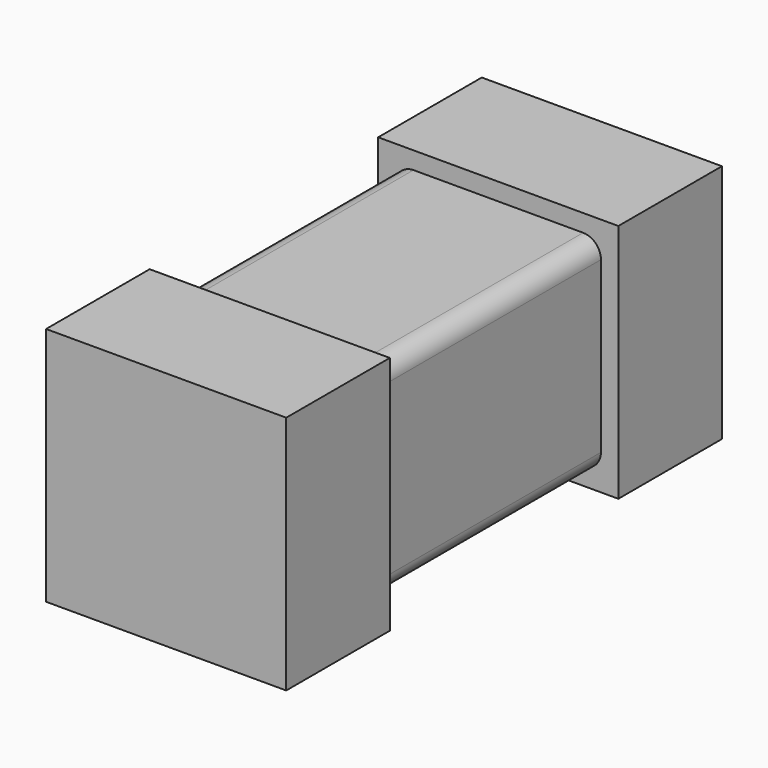
from build123d import *

# Parameters (mm, degrees)
SKETCH_W                   = 2.3
SKETCH_H                   = 2.3
PAD_DEPTH                  = 1.6
FILLET_R                   = 0.2
PAD001_DEPTH               = 1.345
PAD001_MIRRORED_2_DEPTH    = 1.345
SKETCH002_W                = 0.4
SKETCH002_H                = 2.3
POCKET_DEPTH               = 1.6
SKETCH002_MIRRORED002_2_W  = 0.4
SKETCH002_MIRRORED002_2_H  = 2.3
POCKET_MIRRORED002_2_DEPTH = 1.6


with BuildPart() as body:
    # Sketch → Pad (new body, symmetric)
    with BuildSketch(Plane.XZ):
        Rectangle(SKETCH_W, SKETCH_H)
    extrude(amount=PAD_DEPTH, both=True)

    # Fillet
    fillet_edges = [body.edges().sort_by_distance(p)[0] for p in [
        (-1.15, 0, 1.15),
        (1.15, 0, 1.15),
        (1.15, 0, -1.15),
        (-1.15, 0, -1.15),
    ]]
    fillet(fillet_edges, radius=FILLET_R)


with BuildPart() as body001:
    # Sketch001 → Pad001 (new body, symmetric)
    with BuildSketch(Plane.YZ):
        Polygon((0, 0), (-3.05, 0), (-3.05, 1.345), (-1.6, 1.345), (-1.6, 0.435), (0, 0.435), align=None)
    pad001 = extrude(amount=PAD001_DEPTH, both=True)

    # Sketch001 Mirrored 2 → Pad001 Mirrored 2 (add, symmetric)
    with BuildSketch(Plane(origin=(0, 0, 0), x_dir=(0, -1, 0), z_dir=(-1, 0, 0))):
        Polygon((0, 0), (-3.05, 0), (-3.05, 1.345), (-1.6, 1.345), (-1.6, 0.435), (0, 0.435), align=None)
    pad001_mirrored_2 = extrude(amount=-PAD001_MIRRORED_2_DEPTH, both=True)

    # Mirrored001: Pad001, Pad001 Mirrored 2 across XY
    add(pad001.mirror(Plane.XY))
    add(pad001_mirrored_2.mirror(Plane.XY))

    # Sketch002 → Pocket (cut)
    with BuildSketch(Plane.XZ):
        with Locations((-1.2, 0)):
            Rectangle(SKETCH002_W, SKETCH002_H)
    pocket = extrude(amount=-POCKET_DEPTH, mode=Mode.SUBTRACT)

    # Sketch002 Mirrored002 2 → Pocket Mirrored002 2 (cut)
    with BuildSketch(Plane(origin=(0, 0, 0), x_dir=(-1, 0, 0), z_dir=(0, 1, 0))):
        with Locations((-1.2, 0)):
            Rectangle(SKETCH002_MIRRORED002_2_W, SKETCH002_MIRRORED002_2_H)
    pocket_mirrored002_2 = extrude(amount=POCKET_MIRRORED002_2_DEPTH, mode=Mode.SUBTRACT)

    # Mirrored003: Pocket, Pocket Mirrored002 2 across XZ
    add(pocket.mirror(Plane.XZ), mode=Mode.SUBTRACT)
    add(pocket_mirrored002_2.mirror(Plane.XZ), mode=Mode.SUBTRACT)


solid = Compound([body.part, body001.part])
